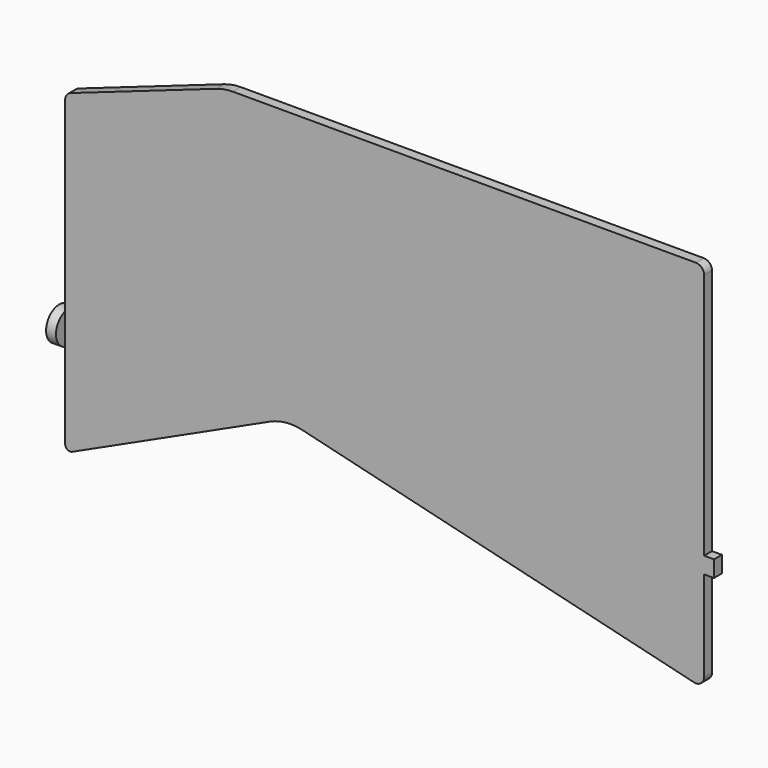
from build123d import *

# Parameters (mm, degrees)
F1_W     = 3
F1_H     = 5
F2_DEPTH = 3
F3_R     = 5
F3_W     = 3
F3_H     = 5
F4_DEPTH = 3


with BuildPart() as f2:
    # F1 (on Front) → F2 (new body)
    with BuildSketch(Plane.XZ):
        with BuildLine():
            ThreePointArc((-46.6777741426, 96.7216931557), (-47.8892804853, 95.8084630547), (-48.3496278524, 94.362843071))
            Line((-48.3496278524, 94.362843071), (-48.3496278524, 35.6093498958))
            Line((-48.3496278524, 35.6093498958), (-45.3496278524, 35.6093498958))
            Line((-45.3496278524, 35.6093498958), (-45.3496278524, 30.6093498958))
            Line((-45.3496278524, 30.6093498958), (-48.3496278524, 30.6093498958))
            Line((-48.3496278524, 30.6093498958), (-48.3496278524, 2.3401650799))
            ThreePointArc((-48.3496278524, 2.3401650799), (-47.6590865504, 1.0773204275), (-46.2232590308, 0.9772042958))
            Line((-46.2232590308, 0.9772042958), (13.8427089941, 28.5814098242))
            ThreePointArc((13.8427089941, 28.5814098242), (18.6587540252, 29.8817828666), (23.6349100642, 29.5308827846))
            Line((23.6349100642, 29.5308827846), (142.562286672, 0.7473961796))
            ThreePointArc((142.562286672, 0.7473961796), (144.6963000746, 1.2125275185), (145.6503721476, 3.17724298))
            Line((145.6503721476, 3.17724298), (145.6503721476, 30.6093498958))
            Line((145.6503721476, 30.6093498958), (142.6503721476, 30.6093498958))
            Line((142.6503721476, 30.6093498958), (142.6503721476, 35.6093498958))
            Line((142.6503721476, 35.6093498958), (145.6503721476, 35.6093498958))
            Line((145.6503721476, 35.6093498958), (145.6503721476, 110.6093498958))
            ThreePointArc((145.6503721476, 110.6093498958), (144.9181391005, 112.3771168488), (143.1503721476, 113.1093498958))
            Line((143.1503721476, 113.1093498958), (2.5566119835, 113.1093498958))
            ThreePointArc((2.5566119835, 113.1093498958), (0.0363448967, 112.8961093045), (-2.4122657575, 112.262450404))
            Line((-2.4122657575, 112.262450404), (-46.6777741426, 96.7216931557))
        make_face()
        with Locations((-46.8496278524, 33.1093498958)):
            Rectangle(F1_W, F1_H)
        with Locations((-49.8496278524, 33.1093498958)):
            Rectangle(F1_W, F1_H)
        with Locations((147.1503721476, 33.1093498958)):
            Rectangle(F1_W, F1_H)
        with Locations((144.1503721476, 33.1093498958)):
            Rectangle(F1_W, F1_H)
    extrude(amount=F2_DEPTH)


with BuildPart() as f4:
    # F3 (on face) → F4 (new body)
    with BuildSketch(Plane(origin=(-51.3496278524, 0, 0), x_dir=(0, -1, 0), z_dir=(-1, 0, 0))):
        with Locations((1.5, 33.1093498958)):
            Circle(F3_R)
        with Locations((1.5, 33.1093498958)):
            Rectangle(F3_W, F3_H, mode=Mode.SUBTRACT)
    extrude(amount=-F4_DEPTH)


solid = Compound([f2.part, f4.part])
